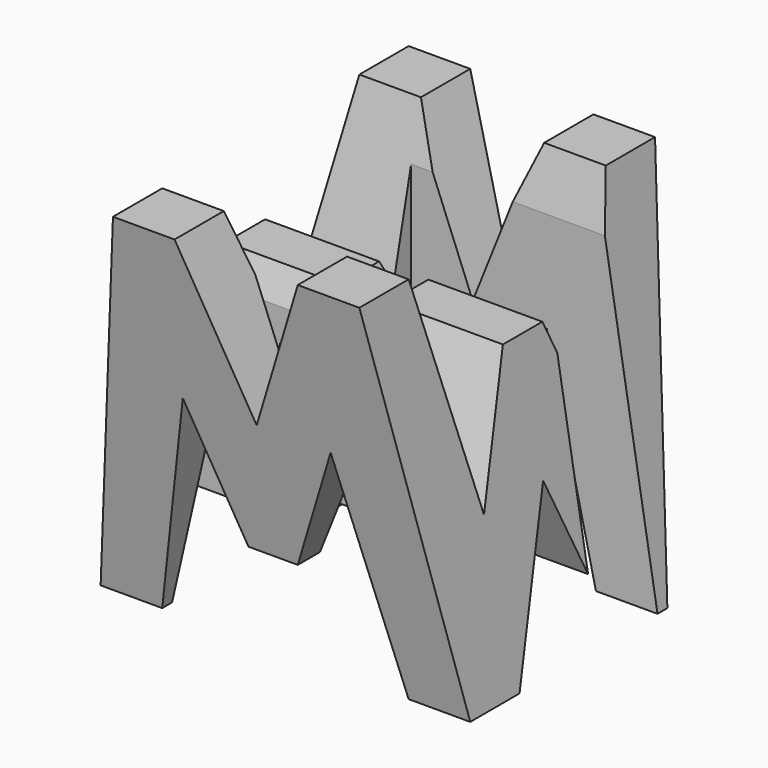
from build123d import *

# Parameters (mm, degrees)
F0_W      = 38.1
F0_H      = 38.1
F1_DEPTH  = 38.1
F6_DEPTH  = 38.1
F8_DEPTH  = 38.1
F9_W      = 25.4
F9_H      = 7.62
F10_DEPTH = 38.1


with BuildPart() as f1:
    # F0 (on Front) → F1 (new body)
    with BuildSketch(Plane.XZ):
        with Locations((19.05, 19.05)):
            Rectangle(F0_W, F0_H)
    extrude(amount=F1_DEPTH)

    # F5 (on offset) → F6 (cut)
    with BuildSketch(Plane.YZ.offset(38.1)):
        Polygon((-6.35, 38.1), (-31.75, 38.1), (-26.67, 15.875), (-21.59, 28.575), (-16.51, 28.575), (-11.43, 15.875), align=None)
        Polygon((-31.75, 0), (-38.1, 38.1), (-38.1, 0), align=None)
        Polygon((-19.05, 15.875), (-25.4, 0), (-12.7, 0), align=None)
        Polygon((0, 0), (0, 38.1), (-6.35, 0), align=None)
    extrude(amount=-F6_DEPTH, mode=Mode.SUBTRACT)

    # F7 (on offset) → F8 (cut)
    with BuildSketch(Plane.XZ.offset(38.1)):
        Polygon((0, 38.1), (0, 0), (6.35, 38.1), align=None)
        Polygon((19.05, 22.225), (25.4, 38.1), (12.7, 38.1), align=None)
        Polygon((38.1, 0), (38.1, 38.1), (31.75, 38.1), align=None)
        Polygon((6.35, 0), (31.75, 0), (26.67, 22.225), (21.59, 9.525), (16.51, 9.525), (11.43, 22.225), align=None)
    extrude(amount=-F8_DEPTH, mode=Mode.SUBTRACT)

    # F9 (on offset) → F10 (cut)
    with BuildSketch(Plane.XY.offset(38.1)):
        with Locations((25.4, -11.43)):
            Rectangle(F9_W, F9_H)
        with Locations((12.7, -26.67)):
            Rectangle(F9_W, F9_H)
    extrude(amount=-F10_DEPTH, mode=Mode.SUBTRACT)


solid = f1.part
